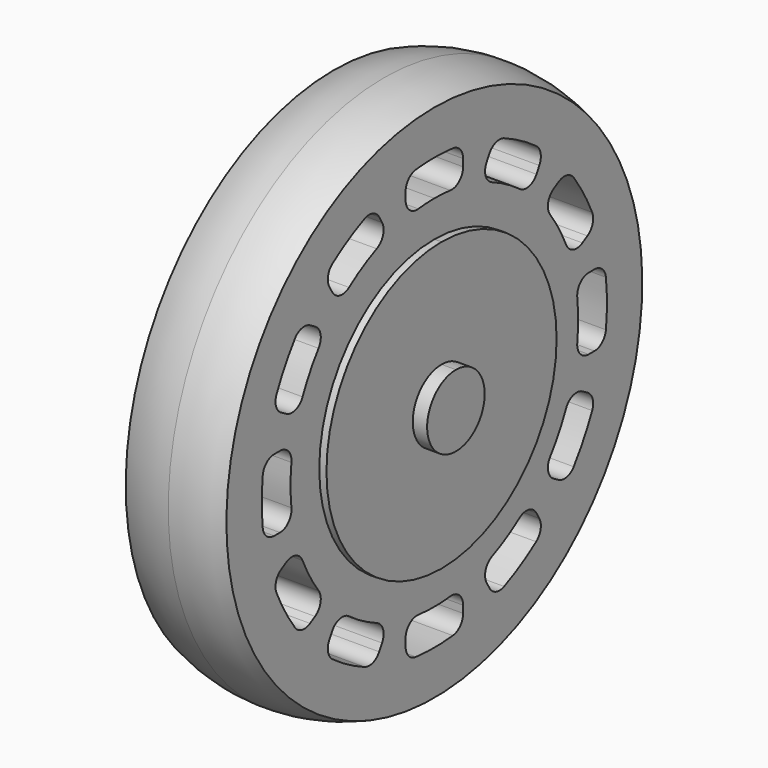
from build123d import *

# Parameters (mm, degrees)
F1_DEPTH = 7
F2_DEPTH = 8
F5_DEPTH = 10


with BuildPart() as f1:
    # F0 (on Right) → F1 (new body, symmetric)
    with BuildSketch(Plane.YZ):
        with BuildLine():
            ThreePointArc((0, 37.5), (-26.5165042945, -26.5165042945), (37.5, 0))
            ThreePointArc((37.5, 0), (26.5165042945, 26.5165042945), (0, 37.5))
        make_face()
        with BuildLine():
            ThreePointArc((35, 0), (-24.7487373415, -24.7487373415), (0, 35))
            ThreePointArc((0, 35), (24.7487373415, 24.7487373415), (35, 0))
        make_face(mode=Mode.SUBTRACT)
        with BuildLine():
            ThreePointArc((35, 0), (24.7487373415, 24.7487373415), (0, 35))
            ThreePointArc((0, 35), (-24.7487373415, -24.7487373415), (35, 0))
        make_face()
        with BuildLine():
            ThreePointArc((-10.0169737534, -22.9054630345), (-8.9182751228, -24.1135722952), (-9.0862808461, -25.7379000772))
            Line((-9.0862808461, -25.7379000772), (-9.5892838882, -26.6091269025))
            ThreePointArc((-9.5892838882, -26.6091269025), (-10.700800761, -27.5104258363), (-12.1300014597, -27.4383502527))
            ThreePointArc((-12.1300014597, -27.4383502527), (-15, -25.9807621135), (-17.6973076269, -24.2240645384))
            ThreePointArc((-17.6973076269, -24.2240645384), (-18.4743272627, -23.0223782181), (-18.249537926, -21.6091269025))
            Line((-18.249537926, -21.6091269025), (-17.7465348839, -20.7379000772))
            ThreePointArc((-17.7465348839, -20.7379000772), (-16.4238286222, -19.7802389618), (-14.8282259966, -20.1276852567))
            ThreePointArc((-14.8282259966, -20.1276852567), (-12.5, -21.6506350946), (-10.0169737534, -22.9054630345))
        make_face(mode=Mode.SUBTRACT)
        with BuildLine():
            ThreePointArc((-20.1276852567, -14.8282259966), (-19.7802389618, -16.4238286222), (-20.7379000772, -17.7465348839))
            Line((-20.7379000772, -17.7465348839), (-21.6091269025, -18.249537926))
            ThreePointArc((-21.6091269025, -18.249537926), (-23.0223782181, -18.4743272627), (-24.2240645384, -17.6973076269))
            ThreePointArc((-24.2240645384, -17.6973076269), (-25.9807621135, -15), (-27.4383502527, -12.1300014597))
            ThreePointArc((-27.4383502527, -12.1300014597), (-27.5104258363, -10.700800761), (-26.6091269025, -9.5892838882))
            Line((-26.6091269025, -9.5892838882), (-25.7379000772, -9.0862808461))
            ThreePointArc((-25.7379000772, -9.0862808461), (-24.1135722952, -8.9182751228), (-22.9054630345, -10.0169737534))
            ThreePointArc((-22.9054630345, -10.0169737534), (-21.6506350946, -12.5), (-20.1276852567, -14.8282259966))
        make_face(mode=Mode.SUBTRACT)
        with BuildLine():
            ThreePointArc((2.7777777778, -24.84519975), (4.3333333333, -25.342103745), (5, -26.83281573))
            Line((5, -26.83281573), (5, -27.8388218142))
            ThreePointArc((5, -27.8388218142), (4.4880476183, -29.1751280237), (3.2142857143, -29.8273090866))
            ThreePointArc((3.2142857143, -29.8273090866), (0, -30), (-3.2142857143, -29.8273090866))
            ThreePointArc((-3.2142857143, -29.8273090866), (-4.4880476183, -29.1751280237), (-5, -27.8388218142))
            Line((-5, -27.8388218142), (-5, -26.83281573))
            ThreePointArc((-5, -26.83281573), (-4.3333333333, -25.342103745), (-2.7777777778, -24.84519975))
            ThreePointArc((-2.7777777778, -24.84519975), (0, -25), (2.7777777778, -24.84519975))
        make_face(mode=Mode.SUBTRACT)
        with BuildLine():
            ThreePointArc((14.8282259966, -20.1276852567), (16.4238286222, -19.7802389618), (17.7465348839, -20.7379000772))
            Line((17.7465348839, -20.7379000772), (18.249537926, -21.6091269025))
            ThreePointArc((18.249537926, -21.6091269025), (18.4743272627, -23.0223782181), (17.6973076269, -24.2240645384))
            ThreePointArc((17.6973076269, -24.2240645384), (15, -25.9807621135), (12.1300014597, -27.4383502527))
            ThreePointArc((12.1300014597, -27.4383502527), (10.700800761, -27.5104258363), (9.5892838882, -26.6091269025))
            Line((9.5892838882, -26.6091269025), (9.0862808461, -25.7379000772))
            ThreePointArc((9.0862808461, -25.7379000772), (8.9182751228, -24.1135722952), (10.0169737534, -22.9054630345))
            ThreePointArc((10.0169737534, -22.9054630345), (12.5, -21.6506350946), (14.8282259966, -20.1276852567))
        make_face(mode=Mode.SUBTRACT)
        with BuildLine():
            ThreePointArc((22.9054630345, -10.0169737534), (24.1135722952, -8.9182751228), (25.7379000772, -9.0862808461))
            Line((25.7379000772, -9.0862808461), (26.6091269025, -9.5892838882))
            ThreePointArc((26.6091269025, -9.5892838882), (27.5104258363, -10.700800761), (27.4383502527, -12.1300014597))
            ThreePointArc((27.4383502527, -12.1300014597), (25.9807621135, -15), (24.2240645384, -17.6973076269))
            ThreePointArc((24.2240645384, -17.6973076269), (23.0223782181, -18.4743272627), (21.6091269025, -18.249537926))
            Line((21.6091269025, -18.249537926), (20.7379000772, -17.7465348839))
            ThreePointArc((20.7379000772, -17.7465348839), (19.7802389618, -16.4238286222), (20.1276852567, -14.8282259966))
            ThreePointArc((20.1276852567, -14.8282259966), (21.6506350946, -12.5), (22.9054630345, -10.0169737534))
        make_face(mode=Mode.SUBTRACT)
        with BuildLine():
            ThreePointArc((-24.84519975, -2.7777777778), (-25.342103745, -4.3333333333), (-26.83281573, -5))
            Line((-26.83281573, -5), (-27.8388218142, -5))
            ThreePointArc((-27.8388218142, -5), (-29.1751280237, -4.4880476183), (-29.8273090866, -3.2142857143))
            ThreePointArc((-29.8273090866, -3.2142857143), (-30, 0), (-29.8273090866, 3.2142857143))
            ThreePointArc((-29.8273090866, 3.2142857143), (-29.1751280237, 4.4880476183), (-27.8388218142, 5))
            Line((-27.8388218142, 5), (-26.83281573, 5))
            ThreePointArc((-26.83281573, 5), (-25.342103745, 4.3333333333), (-24.84519975, 2.7777777778))
            ThreePointArc((-24.84519975, 2.7777777778), (-25, 0), (-24.84519975, -2.7777777778))
        make_face(mode=Mode.SUBTRACT)
        with BuildLine():
            ThreePointArc((-22.9054630345, 10.0169737534), (-24.1135722952, 8.9182751228), (-25.7379000772, 9.0862808461))
            Line((-25.7379000772, 9.0862808461), (-26.6091269025, 9.5892838882))
            ThreePointArc((-26.6091269025, 9.5892838882), (-27.5104258363, 10.700800761), (-27.4383502527, 12.1300014597))
            ThreePointArc((-27.4383502527, 12.1300014597), (-25.9807621135, 15), (-24.2240645384, 17.6973076269))
            ThreePointArc((-24.2240645384, 17.6973076269), (-23.0223782181, 18.4743272627), (-21.6091269025, 18.249537926))
            Line((-21.6091269025, 18.249537926), (-20.7379000772, 17.7465348839))
            ThreePointArc((-20.7379000772, 17.7465348839), (-19.7802389618, 16.4238286222), (-20.1276852567, 14.8282259966))
            ThreePointArc((-20.1276852567, 14.8282259966), (-21.6506350946, 12.5), (-22.9054630345, 10.0169737534))
        make_face(mode=Mode.SUBTRACT)
        with BuildLine():
            ThreePointArc((-17.6973076269, 24.2240645384), (-15, 25.9807621135), (-12.1300014597, 27.4383502527))
            ThreePointArc((-12.1300014597, 27.4383502527), (-10.700800761, 27.5104258363), (-9.5892838882, 26.6091269025))
            Line((-9.5892838882, 26.6091269025), (-9.0862808461, 25.7379000772))
            ThreePointArc((-9.0862808461, 25.7379000772), (-8.9182751228, 24.1135722952), (-10.0169737534, 22.9054630345))
            ThreePointArc((-10.0169737534, 22.9054630345), (-12.5, 21.6506350946), (-14.8282259966, 20.1276852567))
            ThreePointArc((-14.8282259966, 20.1276852567), (-16.4238286222, 19.7802389618), (-17.7465348839, 20.7379000772))
            Line((-17.7465348839, 20.7379000772), (-18.249537926, 21.6091269025))
            ThreePointArc((-18.249537926, 21.6091269025), (-18.4743272627, 23.0223782181), (-17.6973076269, 24.2240645384))
        make_face(mode=Mode.SUBTRACT)
        with BuildLine():
            ThreePointArc((20, 0), (-14.1421356237, -14.1421356237), (0, 20))
            ThreePointArc((0, 20), (14.1421356237, 14.1421356237), (20, 0))
        make_face(mode=Mode.SUBTRACT)
        with BuildLine():
            ThreePointArc((24.84519975, 2.7777777778), (25.342103745, 4.3333333333), (26.83281573, 5))
            Line((26.83281573, 5), (27.8388218142, 5))
            ThreePointArc((27.8388218142, 5), (29.1751280237, 4.4880476183), (29.8273090866, 3.2142857143))
            ThreePointArc((29.8273090866, 3.2142857143), (30, 0), (29.8273090866, -3.2142857143))
            ThreePointArc((29.8273090866, -3.2142857143), (29.1751280237, -4.4880476183), (27.8388218142, -5))
            Line((27.8388218142, -5), (26.83281573, -5))
            ThreePointArc((26.83281573, -5), (25.342103745, -4.3333333333), (24.84519975, -2.7777777778))
            ThreePointArc((24.84519975, -2.7777777778), (25, 0), (24.84519975, 2.7777777778))
        make_face(mode=Mode.SUBTRACT)
        with BuildLine():
            ThreePointArc((20.1276852567, 14.8282259966), (19.7802389618, 16.4238286222), (20.7379000772, 17.7465348839))
            Line((20.7379000772, 17.7465348839), (21.6091269025, 18.249537926))
            ThreePointArc((21.6091269025, 18.249537926), (23.0223782181, 18.4743272627), (24.2240645384, 17.6973076269))
            ThreePointArc((24.2240645384, 17.6973076269), (25.9807621135, 15), (27.4383502527, 12.1300014597))
            ThreePointArc((27.4383502527, 12.1300014597), (27.5104258363, 10.700800761), (26.6091269025, 9.5892838882))
            Line((26.6091269025, 9.5892838882), (25.7379000772, 9.0862808461))
            ThreePointArc((25.7379000772, 9.0862808461), (24.1135722952, 8.9182751228), (22.9054630345, 10.0169737534))
            ThreePointArc((22.9054630345, 10.0169737534), (21.6506350946, 12.5), (20.1276852567, 14.8282259966))
        make_face(mode=Mode.SUBTRACT)
        with BuildLine():
            ThreePointArc((-3.2142857143, 29.8273090866), (-1.6094606864, 29.9567961621), (0, 30))
            ThreePointArc((0, 30), (1.6094606864, 29.9567961621), (3.2142857143, 29.8273090866))
            ThreePointArc((3.2142857143, 29.8273090866), (4.4880476183, 29.1751280237), (5, 27.8388218142))
            Line((5, 27.8388218142), (5, 26.83281573))
            ThreePointArc((5, 26.83281573), (4.3333333333, 25.342103745), (2.7777777778, 24.84519975))
            ThreePointArc((2.7777777778, 24.84519975), (1.3910438976, 24.9612699371), (0, 25))
            ThreePointArc((0, 25), (-1.3910438976, 24.9612699371), (-2.7777777778, 24.84519975))
            ThreePointArc((-2.7777777778, 24.84519975), (-4.3333333333, 25.342103745), (-5, 26.83281573))
            Line((-5, 26.83281573), (-5, 27.8388218142))
            ThreePointArc((-5, 27.8388218142), (-4.4880476183, 29.1751280237), (-3.2142857143, 29.8273090866))
        make_face(mode=Mode.SUBTRACT)
        with BuildLine():
            ThreePointArc((10.0169737534, 22.9054630345), (8.9182751228, 24.1135722952), (9.0862808461, 25.7379000772))
            Line((9.0862808461, 25.7379000772), (9.5892838882, 26.6091269025))
            ThreePointArc((9.5892838882, 26.6091269025), (10.700800761, 27.5104258363), (12.1300014597, 27.4383502527))
            ThreePointArc((12.1300014597, 27.4383502527), (15, 25.9807621135), (17.6973076269, 24.2240645384))
            ThreePointArc((17.6973076269, 24.2240645384), (18.4743272627, 23.0223782181), (18.249537926, 21.6091269025))
            Line((18.249537926, 21.6091269025), (17.7465348839, 20.7379000772))
            ThreePointArc((17.7465348839, 20.7379000772), (16.4238286222, 19.7802389618), (14.8282259966, 20.1276852567))
            ThreePointArc((14.8282259966, 20.1276852567), (12.5, 21.6506350946), (10.0169737534, 22.9054630345))
        make_face(mode=Mode.SUBTRACT)
        with BuildLine():
            ThreePointArc((20, 0), (14.1421356237, 14.1421356237), (0, 20))
            ThreePointArc((0, 20), (-14.1421356237, -14.1421356237), (20, 0))
        make_face()
        with BuildLine():
            ThreePointArc((5, 0), (-3.5355339059, -3.5355339059), (0, 5))
            ThreePointArc((0, 5), (3.5355339059, 3.5355339059), (5, 0))
        make_face(mode=Mode.SUBTRACT)
    extrude(amount=F1_DEPTH, both=True)

    # F0 (on Right) → F2 (join, symmetric)
    with BuildSketch(Plane.YZ):
        with BuildLine():
            ThreePointArc((20, 0), (14.1421356237, 14.1421356237), (0, 20))
            ThreePointArc((0, 20), (-14.1421356237, -14.1421356237), (20, 0))
        make_face()
        with BuildLine():
            ThreePointArc((5, 0), (-3.5355339059, -3.5355339059), (0, 5))
            ThreePointArc((0, 5), (3.5355339059, 3.5355339059), (5, 0))
        make_face(mode=Mode.SUBTRACT)
    extrude(amount=F2_DEPTH, both=True)

    # F3 (on Front) → F4 (revolve, cut)
    with BuildSketch(Plane.XZ):
        with BuildLine():
            Line((7, 37.5), (0, 37.5))
            ThreePointArc((0, 37.5), (3.5650335901, 37.1579611989), (7, 36.1443237868))
            Line((7, 36.1443237868), (7, 37.5))
        make_face()
        with BuildLine():
            ThreePointArc((-7, 36.1443237868), (-3.5650335901, 37.1579611989), (0, 37.5))
            Line((0, 37.5), (-7, 37.5))
            Line((-7, 37.5), (-7, 36.1443237868))
        make_face()
    revolve(axis=Axis((-0.1237622588, 0, 0), (1, 0, 0)), mode=Mode.SUBTRACT)


with BuildPart() as f5:
    # F0 (on Right) → F5 (new body, symmetric)
    with BuildSketch(Plane.YZ):
        with BuildLine():
            ThreePointArc((5, 0), (3.5355339059, 3.5355339059), (0, 5))
            ThreePointArc((0, 5), (-3.5355339059, -3.5355339059), (5, 0))
        make_face()
    extrude(amount=F5_DEPTH, both=True)


solid = Compound([f1.part, f5.part])
